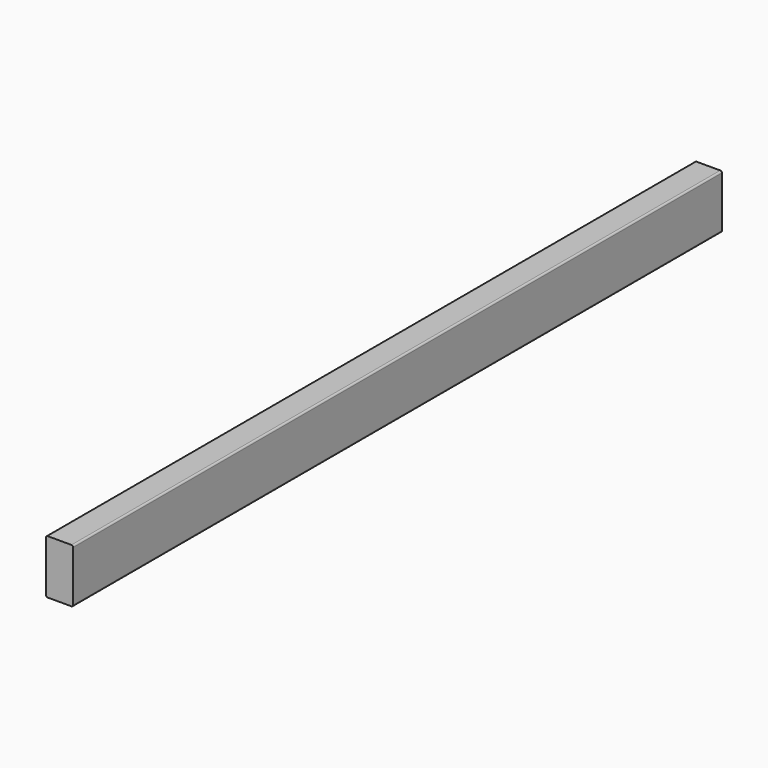
from build123d import *

# Parameters (mm, degrees)
F0_W     = 50.8
F0_H     = 1524
F1_DEPTH = 50.8
F2_R     = 3.175


with BuildPart() as f1:
    # F0 (on Top) → F1 (new body, symmetric)
    with BuildSketch(Plane.XY):
        Rectangle(F0_W, F0_H)
    extrude(amount=F1_DEPTH, both=True)

    # F2
    f2_edges = [f1.edges().sort_by_distance(p)[0] for p in [
        (25.4, 0, 50.8),
        (-25.4, 0, 50.8),
        (25.4, 0, -50.8),
        (-25.4, 0, -50.8),
    ]]
    fillet(f2_edges, radius=F2_R)


with BuildPart() as f3_1:
    # F3: copy of F1
    add(f1.part)


solid = Compound([f1.part, f3_1.part])
